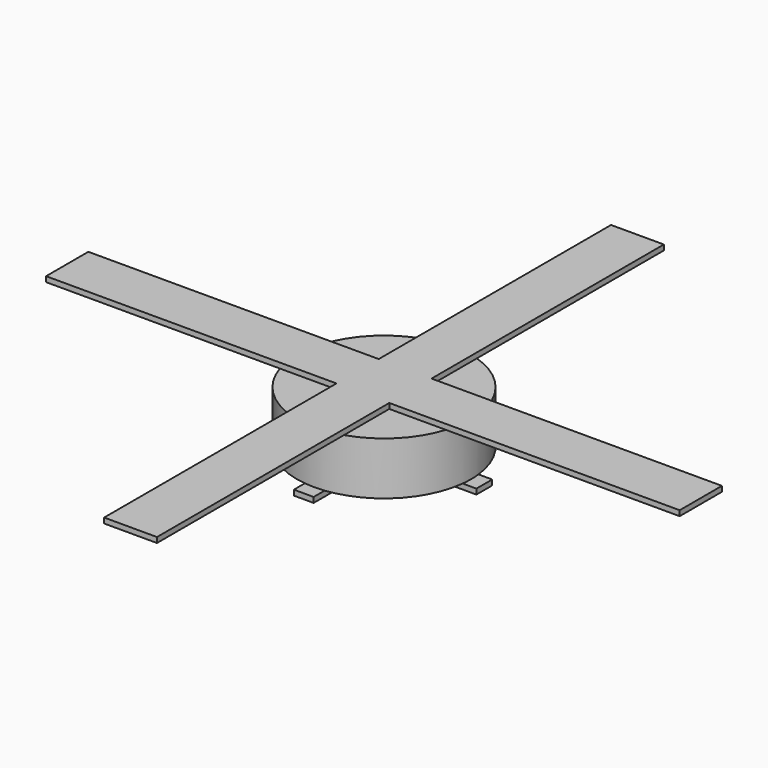
from build123d import *

# Parameters (mm, degrees)
F0_R     = 41.91
F1_DEPTH = 25.4
F2_W     = 25.4
F2_H     = 139.7
F2_W_2   = 139.7
F2_H_2   = 25.4
F3_DEPTH = 2.54
F4_W     = 9.525
F4_H     = 43.4975
F4_W_2   = 43.4975
F4_H_2   = 9.525
F4_R     = 3.175
F5_DEPTH = 2.54


with BuildPart() as f1:
    # F0 (on Top) → F1 (new body)
    with BuildSketch(Plane.XY):
        Circle(F0_R)
    extrude(amount=F1_DEPTH)

    # F2 (on face) → F3 (join)
    with BuildSketch(Plane.XY.offset(25.4)):
        with Locations((0, 82.55)):
            Rectangle(F2_W, F2_H)
        with Locations((82.55, 0)):
            Rectangle(F2_W_2, F2_H_2)
        Rectangle(F2_W, F2_H_2)
        with Locations((-82.55, 0)):
            Rectangle(F2_W_2, F2_H_2)
        with Locations((0, -82.55)):
            Rectangle(F2_W, F2_H)
    extrude(amount=F3_DEPTH)

    # F4 (on face) → F5 (join)
    with BuildSketch(Plane(origin=(0, 0, 0), x_dir=(1, 0, 0), z_dir=(0, 0, -1))):
        with Locations((0, -26.51125)):
            Rectangle(F4_W, F4_H)
        with Locations((-26.51125, 0)):
            Rectangle(F4_W_2, F4_H_2)
        Rectangle(F4_W, F4_H_2)
        Circle(F4_R, mode=Mode.SUBTRACT)
        with Locations((26.51125, 0)):
            Rectangle(F4_W_2, F4_H_2)
        with Locations((0, 26.51125)):
            Rectangle(F4_W, F4_H)
    extrude(amount=F5_DEPTH)


solid = f1.part
